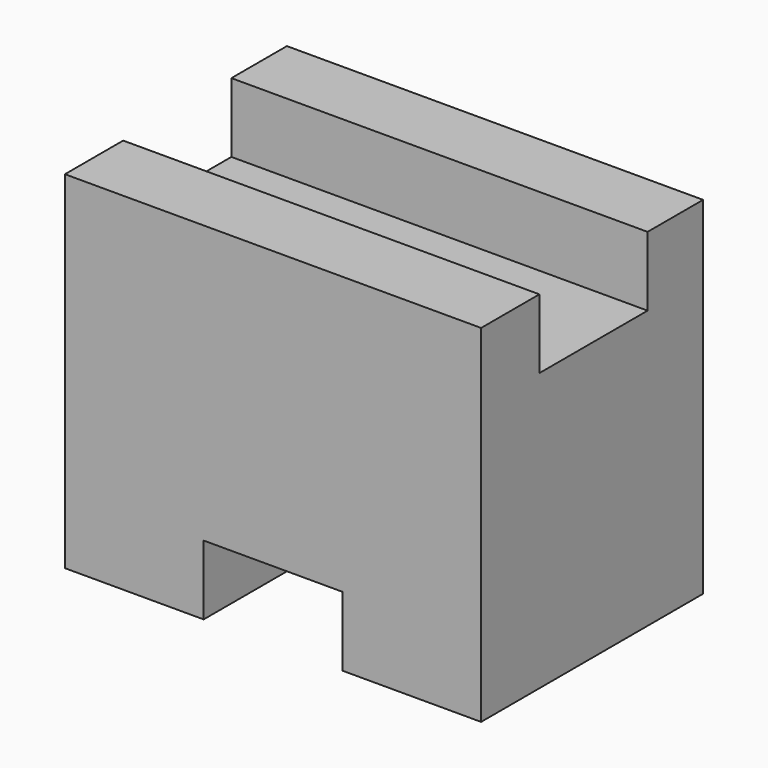
from build123d import *

# Parameters (mm, degrees)
F0_W     = 25.4
F0_H     = 31.75
F1_DEPTH = 38.1
F2_W     = 6.35
F2_H     = 6.35
F3_DEPTH = 38.1
F4_W     = 6.0325
F4_H     = 6.35
F5_DEPTH = 38.1
F6_W     = 6.35
F6_H     = 6.357384
F7_DEPTH = 38.1
F8_W     = 6.35
F8_H     = 6.357384
F9_DEPTH = 38.1


with BuildPart() as f1:
    # F0 (on Right) → F1 (new body)
    with BuildSketch(Plane.YZ):
        with Locations((12.7, 15.875)):
            Rectangle(F0_W, F0_H)
    extrude(amount=F1_DEPTH)

    # F2 (on face) → F3 (cut)
    with BuildSketch(Plane.YZ.offset(38.1)):
        with Locations((15.875, 28.575)):
            Rectangle(F2_W, F2_H)
    extrude(amount=-F3_DEPTH, mode=Mode.SUBTRACT)

    # F4 (on face) → F5 (cut)
    with BuildSketch(Plane.YZ.offset(38.1)):
        with Locations((9.68375, 28.575)):
            Rectangle(F4_W, F4_H)
    extrude(amount=-F5_DEPTH, mode=Mode.SUBTRACT)

    # F6 (on face) → F7 (cut)
    with BuildSketch(Plane.XZ):
        with Locations((15.875, 3.178692)):
            Rectangle(F6_W, F6_H)
    extrude(amount=-F7_DEPTH, mode=Mode.SUBTRACT)

    # F8 (on face) → F9 (cut)
    with BuildSketch(Plane.XZ):
        with Locations((22.225, 3.178692)):
            Rectangle(F8_W, F8_H)
    extrude(amount=-F9_DEPTH, mode=Mode.SUBTRACT)


solid = f1.part
